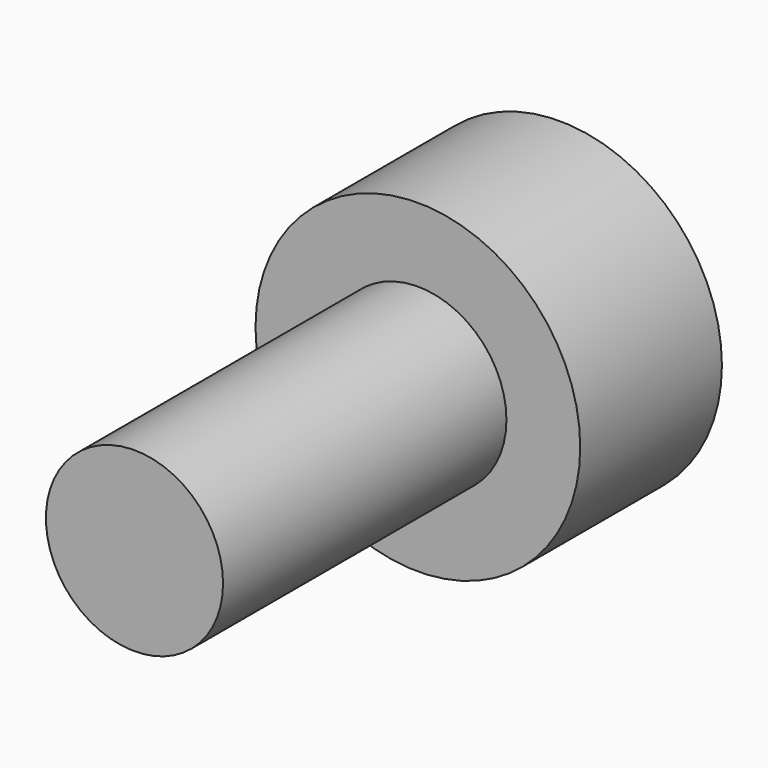
from build123d import *

# Parameters (mm, degrees)
SKETCH005_R             = 2.75
PAD003_DEPTH            = 3
SKETCH006_R             = 1.5
PAD002_DEPTH            = 6
POCKET001_DEPTH         = 4
BODY002_PLACEMENT_ANGLE = 270


with BuildPart() as part:
    # Sketch005 → Pad003 (new body)
    with BuildSketch(Plane.XY):
        Circle(SKETCH005_R)
    extrude(amount=PAD003_DEPTH)

    # Sketch006 (on Face2 of Pad003) → Pad002 (join)
    with BuildSketch(Plane(origin=(0, 0, 0), x_dir=(1, 0, 0), z_dir=(0, 0, -1))):
        Circle(SKETCH006_R)
    extrude(amount=PAD002_DEPTH)

    # Sketch004 (on DatumPlane) → Pocket001 (cut)
    with BuildSketch(Plane.XY.offset(3)):
        Polygon((0.721688, -1.25), (1.443376, 0), (0.721688, 1.25), (-0.721688, 1.25), (-1.443376, 0), (-0.721688, -1.25), align=None)
    extrude(amount=-POCKET001_DEPTH, mode=Mode.SUBTRACT)


with BuildPart() as part_1:
    # Body002 placement: moved
    add(part.part.moved(Location((36.75, 1.3, -2.5))).rotate(Axis((36.75, 1.3, -2.5), (1, 0, 0)), BODY002_PLACEMENT_ANGLE))


solid = part_1.part
